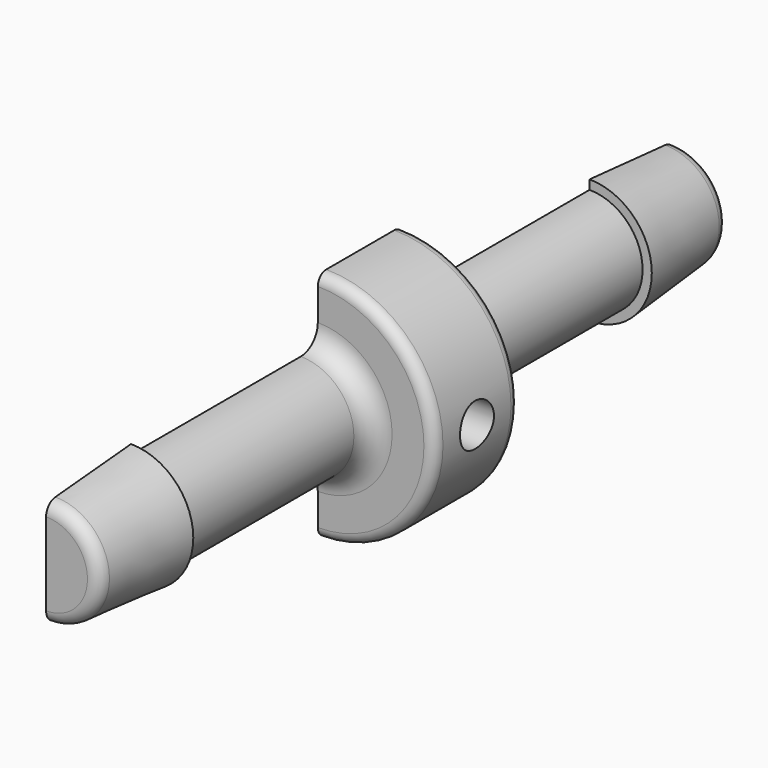
from build123d import *

# Parameters (mm, degrees)
REVOLUTION002_ANGLE  = 180
FILLET006_R          = 0.6
FILLET007_R          = 1
FILLET008_R          = 0.5
SKETCH003_R          = 1
POCKET001_DEPTH      = 0.001
POCKET001_DEPTH_BACK = 5.501


with BuildPart() as part:
    # Sketch004 → Revolution002 (revolve)
    with BuildSketch(Plane.YZ):
        Polygon((-18.5, 2.5), (-13.5, 2.935), (-13.5, 2.5), (-2.5, 2.5), (-2.5, 5.5), (2.5, 5.5), (2.5, 2.5), (13.5, 2.5), (13.5, 2.935), (18.5, 2.5), (18.5, 0), (-18.5, 0), align=None)
    revolve(axis=Axis((0, 0, 0), (0, 1, 0)), revolution_arc=REVOLUTION002_ANGLE)

    # Fillet006
    fillet006_edges = [part.edges().sort_by_distance(p)[0] for p in [
        (2.5, -18.5, 0),
        (2.5, 18.5, 0),
    ]]
    fillet(fillet006_edges, radius=FILLET006_R)

    # Fillet007
    fillet007_edges = [part.edges().sort_by_distance(p)[0] for p in [
        (2.5, -2.5, 0),
        (2.5, 2.5, 0),
    ]]
    fillet(fillet007_edges, radius=FILLET007_R)

    # Fillet008
    fillet008_edges = [part.edges().sort_by_distance(p)[0] for p in [
        (5.5, -2.5, 0),
        (5.5, 2.5, 0),
    ]]
    fillet(fillet008_edges, radius=FILLET008_R)

    # Sketch003 → Pocket001 (cut, two sides)
    with BuildSketch(Plane.YZ) as pocket001_sk:
        Circle(SKETCH003_R)
    extrude(amount=-POCKET001_DEPTH, mode=Mode.SUBTRACT)
    extrude(pocket001_sk.sketch, amount=POCKET001_DEPTH_BACK, mode=Mode.SUBTRACT)


solid = part.part
